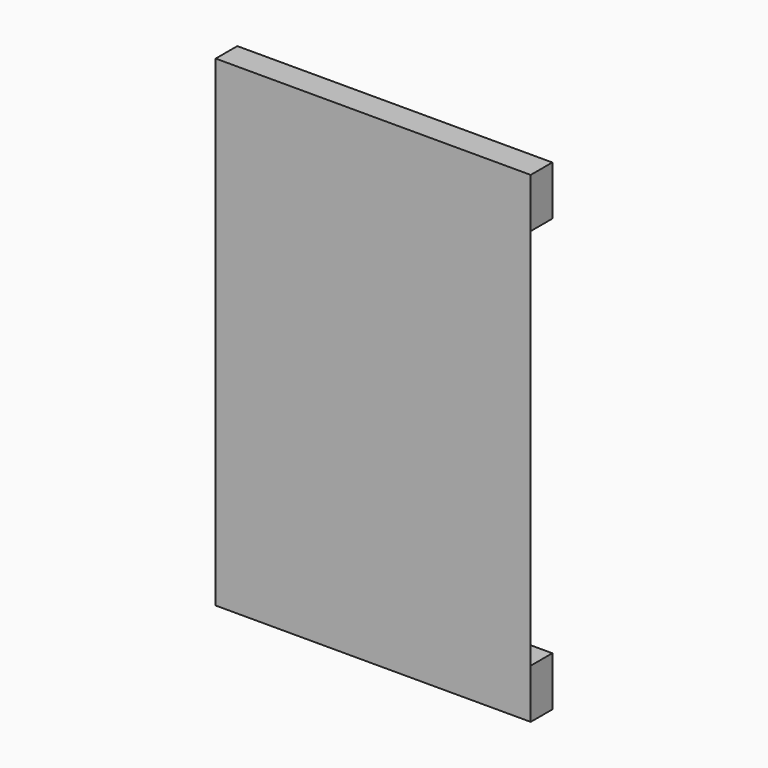
from build123d import *

# Parameters (mm, degrees)
F1_DEPTH = 107
F2_W     = 70
F2_H     = 11
F2_W_2   = 40
F2_H_2   = 18
F3_DEPTH = 6


with BuildPart() as f1:
    # F0 (on Top) → F1 (new body)
    with BuildSketch(Plane.XY):
        with BuildLine():
            Line((0, 0), (70, 0))
            ThreePointArc((70, 0), (35, 3), (0, 0))
        make_face()
    extrude(amount=F1_DEPTH)

    # F2 (on face) → F3 (join)
    with BuildSketch(Plane.XZ):
        with Locations((35, 101.5)):
            Rectangle(F2_W, F2_H)
        with Locations((35, 53.5)):
            Rectangle(F2_W_2, F2_H_2)
        with Locations((35, 5.5)):
            Rectangle(F2_W, F2_H)
    extrude(amount=-F3_DEPTH)


solid = f1.part
